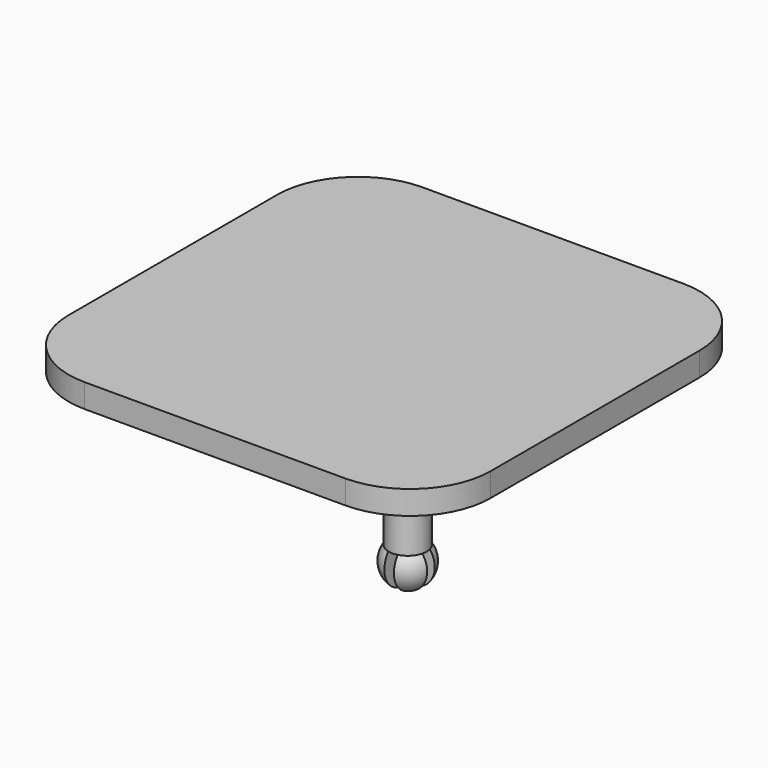
from build123d import *

# Parameters (mm, degrees)
BOX002_W     = 2
BOX002_H     = 12
BOX002_DEPTH = 10
BOX001_W     = 12
BOX001_H     = 2
BOX001_DEPTH = 10
BOX003_W     = 2
BOX003_H     = 12
BOX003_DEPTH = 10
BOX_W        = 12
BOX_H        = 2
BOX_DEPTH    = 10
PAD_DEPTH    = 5
SKETCH001_R  = 24
PAD001_DEPTH = 8
SKETCH002_R  = 4
PAD002_DEPTH = 16


with BuildPart() as cubo002:
    # Box002 → Box002 (new body)
    with BuildSketch(Plane(origin=(-26, 19, -25), x_dir=(1, 0, 0), z_dir=(0, 0, 1))):
        with Locations((1, 6)):
            Rectangle(BOX002_W, BOX002_H)
    extrude(amount=BOX002_DEPTH)


with BuildPart() as fusion:
    # Box001 → Box001 (new body)
    with BuildSketch(Plane(origin=(-31, 24, -25), x_dir=(1, 0, 0), z_dir=(0, 0, 1))):
        with Locations((6, 1)):
            Rectangle(BOX001_W, BOX001_H)
    extrude(amount=BOX001_DEPTH)

    # Fusion: union Cubo002
    add(cubo002.part)


with BuildPart() as cut001:
    # Sphere001 → Sphere001 (revolve)
    with BuildSketch(Plane(origin=(-25, 25, -19), x_dir=(1, 0, 0), z_dir=(0, -1, 0))):
        with BuildLine():
            ThreePointArc((0, -5), (5, 0), (0, 5))
            Line((0, 5), (0, -5))
        make_face()
    revolve(axis=Axis((-25, 25, -19), (0, 0, 1)))

    # Cut001: cut Fusion
    add(fusion.part, mode=Mode.SUBTRACT)


with BuildPart() as cubo003:
    # Box003 → Box003 (new body)
    with BuildSketch(Plane(origin=(24, -31, -25), x_dir=(1, 0, 0), z_dir=(0, 0, 1))):
        with Locations((1, 6)):
            Rectangle(BOX003_W, BOX003_H)
    extrude(amount=BOX003_DEPTH)


with BuildPart() as fusion001:
    # Box → Box (new body)
    with BuildSketch(Plane(origin=(19, -26, -25), x_dir=(1, 0, 0), z_dir=(0, 0, 1))):
        with Locations((6, 1)):
            Rectangle(BOX_W, BOX_H)
    extrude(amount=BOX_DEPTH)

    # Fusion001: union Cubo003
    add(cubo003.part)


with BuildPart() as cut:
    # Sphere → Sphere (revolve)
    with BuildSketch(Plane(origin=(25, -25, -19), x_dir=(1, 0, 0), z_dir=(0, -1, 0))):
        with BuildLine():
            ThreePointArc((0, -5), (5, 0), (0, 5))
            Line((0, 5), (0, -5))
        make_face()
    revolve(axis=Axis((25, -25, -19), (0, 0, 1)))

    # Cut: cut Fusion001
    add(fusion001.part, mode=Mode.SUBTRACT)


with BuildPart() as fusion002:
    # Sketch → Pad (new body)
    with BuildSketch(Plane.XY):
        with BuildLine():
            Line((-27.5, 44.5), (27.5, 44.5))
            ThreePointArc((44.5, 27.5), (39.520815, 39.520815), (27.5, 44.5))
            Line((44.5, 27.5), (44.5, -27.5))
            ThreePointArc((27.5, -44.5), (39.520815, -39.520815), (44.5, -27.5))
            Line((27.5, -44.5), (-27.5, -44.5))
            ThreePointArc((-44.5, -27.5), (-39.520815, -39.520815), (-27.5, -44.5))
            Line((-44.5, -27.5), (-44.5, 27.5))
            ThreePointArc((-27.5, 44.5), (-39.520815, 39.520815), (-44.5, 27.5))
        make_face()
    extrude(amount=PAD_DEPTH)

    # Sketch001 (on Face9 of Pad) → Pad001 (join)
    with BuildSketch(Plane(origin=(0, 0, 0), x_dir=(1, 0, 0), z_dir=(0, 0, -1))):
        with Locations((0.149781, -0.32649)):
            Circle(SKETCH001_R)
    extrude(amount=PAD001_DEPTH)

    # Sketch002 (on Face4 of Pad001) → Pad002 (join)
    with BuildSketch(Plane(origin=(0, 0, 0), x_dir=(1, 0, 0), z_dir=(0, 0, -1))):
        with Locations((25, 25)):
            Circle(SKETCH002_R)
        with Locations((-25, -25)):
            Circle(SKETCH002_R)
    extrude(amount=PAD002_DEPTH)

    # Fusion002: union Cut001, Cut
    add(cut001.part)
    add(cut.part)


solid = fusion002.part
